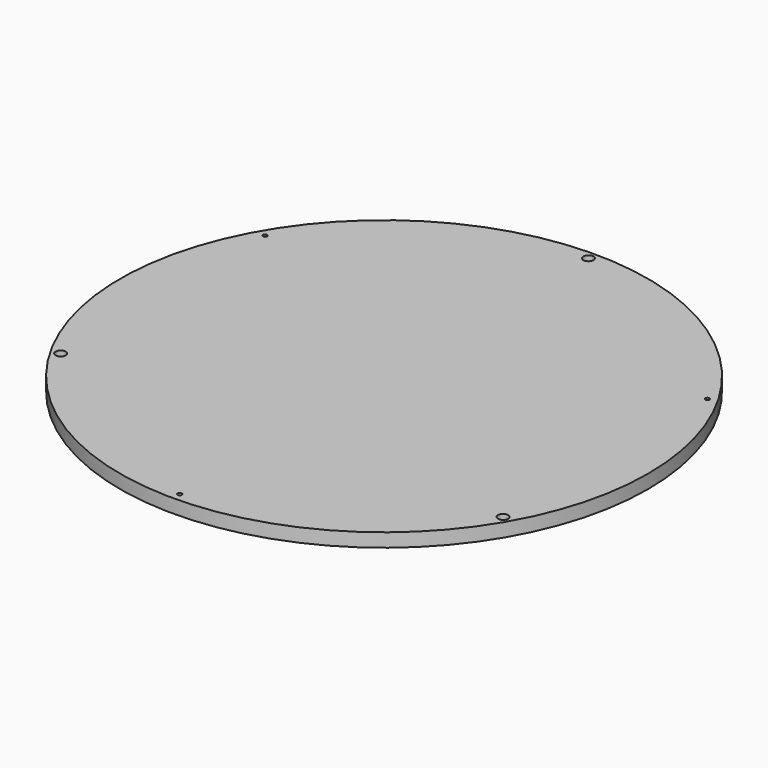
from build123d import *

# Parameters (mm, degrees)
F0_R     = 155
F0_R_2   = 3
F0_R_3   = 1.25
F1_DEPTH = 8


with BuildPart() as f1:
    # F0 (on Top) → F1 (new body)
    with BuildSketch(Plane.XY):
        Circle(F0_R)
        with Locations((-129.903811, -75)):
            Circle(F0_R_2, mode=Mode.SUBTRACT)
        with Locations((0, -150)):
            Circle(F0_R_3, mode=Mode.SUBTRACT)
        with Locations((129.903811, -75)):
            Circle(F0_R_2, mode=Mode.SUBTRACT)
        with Locations((-129.903811, 75)):
            Circle(F0_R_3, mode=Mode.SUBTRACT)
        with Locations((129.903811, 75)):
            Circle(F0_R_3, mode=Mode.SUBTRACT)
        with Locations((0, 150)):
            Circle(F0_R_2, mode=Mode.SUBTRACT)
    extrude(amount=F1_DEPTH)


solid = f1.part
